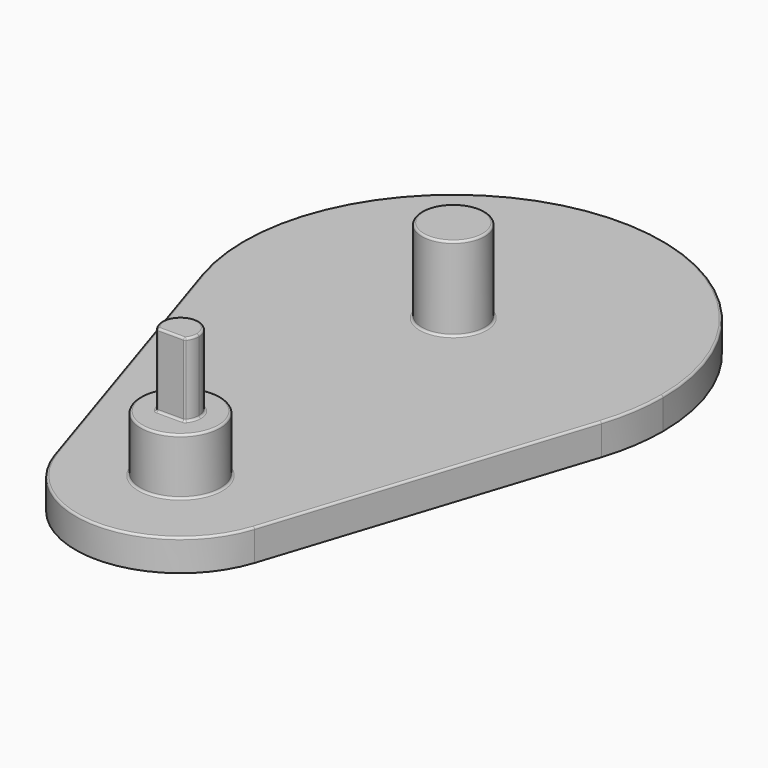
from build123d import *

# Parameters (mm, degrees)
F1_DEPTH = 3
F2_R     = 3
F3_DEPTH = 8
F4_R     = 3.8
F5_DEPTH = 5.4
F7_DEPTH = 7
F8_R     = 0.2


with BuildPart() as f1:
    # F0 (on Top) → F1 (new body)
    with BuildSketch(Plane.XY):
        with BuildLine():
            ThreePointArc((19.0291819997, 26.3357413656), (19.7558047165, 29.3754503593), (20, 32.4912456033))
            ThreePointArc((20, 32.4912456033), (-3.115795244, 52.2470503198), (-19.0291819997, 26.3357413656))
            ThreePointArc((-19.0291819997, 26.3357413656), (0, 12.4912456033), (19.0291819997, 26.3357413656))
        make_face()
        with BuildLine():
            ThreePointArc((10, 0), (-1.557897622, 9.8779023583), (-9.5145909999, -3.0777521189))
            ThreePointArc((-9.5145909999, -3.0777521189), (0, -10), (9.5145909999, -3.0777521189))
            ThreePointArc((9.5145909999, -3.0777521189), (9.8779023583, -1.557897622), (10, 0))
        make_face()
        with BuildLine():
            ThreePointArc((19.0291819997, 26.3357413656), (0, 12.4912456033), (-19.0291819997, 26.3357413656))
            Line((-19.0291819997, 26.3357413656), (-9.5145909999, -3.0777521189))
            ThreePointArc((-9.5145909999, -3.0777521189), (-1.557897622, 9.8779023583), (10, 0))
            ThreePointArc((10, 0), (9.8779023583, -1.557897622), (9.5145909999, -3.0777521189))
            Line((9.5145909999, -3.0777521189), (19.0291819997, 26.3357413656))
        make_face()
    extrude(amount=F1_DEPTH)

    # F2 (on face) → F3 (join)
    with BuildSketch(Plane.XY.offset(3)):
        with Locations((0, 32.4912456033)):
            Circle(F2_R)
    extrude(amount=F3_DEPTH)

    # F4 (on face) → F5 (join)
    with BuildSketch(Plane.XY.offset(3)):
        Circle(F4_R)
    extrude(amount=F5_DEPTH)

    # F6 (on face) → F7 (join)
    with BuildSketch(Plane.XY.offset(8.4)):
        with BuildLine():
            ThreePointArc((1.3190905958, -1.15), (1.6387355709, -0.6140404943), (1.75, 0))
            ThreePointArc((1.75, 0), (-0.6140404943, 1.6387355709), (-1.3190905958, -1.15))
            Line((-1.3190905958, -1.15), (1.3190905958, -1.15))
        make_face()
    extrude(amount=F7_DEPTH)

    # F8
    f8_edges = [f1.edges().sort_by_distance(p)[0] for p in [
        (-3, 32.491246, 11),
        (0, -1.15, 15.4),
        (0, 1.75, 15.4),
        (-3.8, 0, 8.4),
        (0, -1.15, 8.4),
        (0, 1.75, 8.4),
        (-14.271886, 11.628995, 3),
        (0, 52.491246, 3),
        (0, -10, 3),
        (14.271886, 11.628995, 3),
        (-3.8, 0, 3),
        (-3, 32.491246, 3),
        (-1.319091, -1.15, 11.9),
        (1.319091, -1.15, 11.9),
    ]]
    fillet(f8_edges, radius=F8_R)


solid = f1.part
